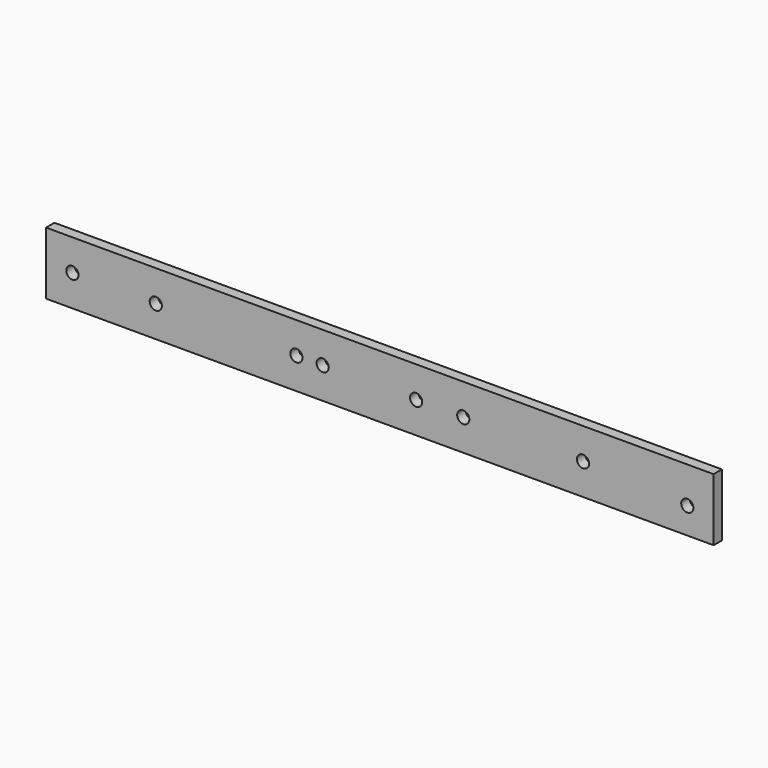
from build123d import *

# Parameters (mm, degrees)
F0_W     = 203.2
F0_H     = 19.05
F1_DEPTH = 3.175
F2_R     = 1.855
F3_DEPTH = 25.4


with BuildPart() as f1:
    # F0 (on Front) → F1 (new body)
    with BuildSketch(Plane.XZ):
        with Locations((-101.6, 9.525)):
            Rectangle(F0_W, F0_H)
    extrude(amount=F1_DEPTH)

    # F2 (on face) → F3 (cut)
    with BuildSketch(Plane.XZ.offset(3.175)):
        with Locations((-195.2, 9.525)):
            Circle(F2_R)
        with Locations((-169.8, 9.525)):
            Circle(F2_R)
        with Locations((-127, 9.525)):
            Circle(F2_R)
        with Locations((-119, 9.525)):
            Circle(F2_R)
        with Locations((-90.55, 9.525)):
            Circle(F2_R)
        with Locations((-76.2, 9.525)):
            Circle(F2_R)
        with Locations((-39.75, 9.525)):
            Circle(F2_R)
        with Locations((-8, 8)):
            Circle(F2_R)
    extrude(amount=-F3_DEPTH, mode=Mode.SUBTRACT)


solid = f1.part
